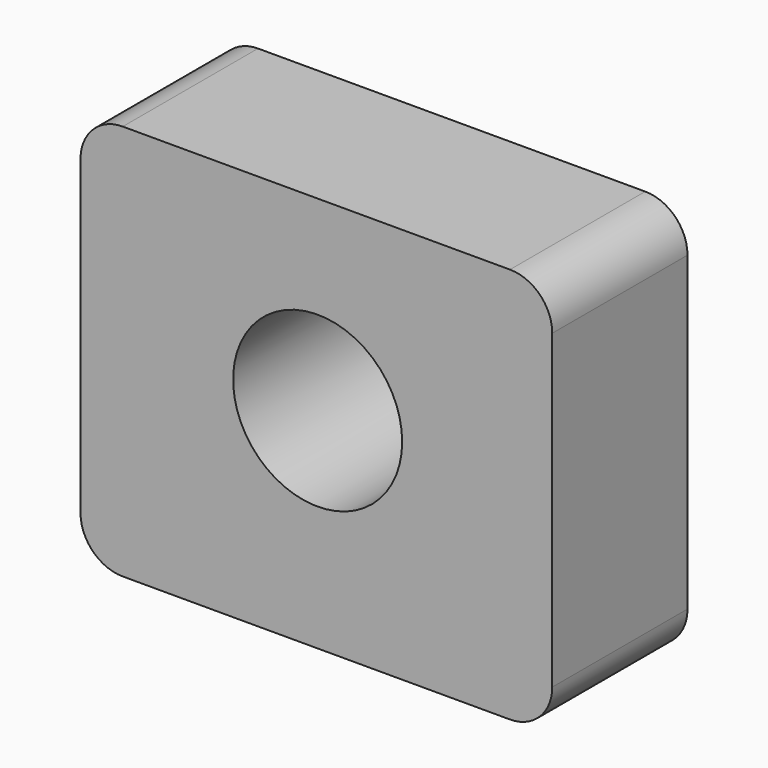
from build123d import *

# Parameters (mm, degrees)
F0_R     = 12.7
F1_DEPTH = 12.7


with BuildPart() as f1:
    # F0 (on Front) → F1 (new body, symmetric)
    with BuildSketch(Plane.XZ):
        with BuildLine():
            ThreePointArc((0, 6.35), (1.859872, 1.859872), (6.35, 0))
            Line((6.35, 0), (64.526166, 0))
            ThreePointArc((64.526166, 0), (69.016294, 1.859872), (70.876166, 6.35))
            Line((70.876166, 6.35), (70.876166, 53.155664))
            ThreePointArc((70.876166, 53.155664), (69.016294, 57.645792), (64.526166, 59.505664))
            Line((64.526166, 59.505664), (6.35, 59.505664))
            ThreePointArc((6.35, 59.505664), (1.859872, 57.645792), (0, 53.155664))
            Line((0, 53.155664), (0, 6.35))
        make_face()
        with Locations((35.627604, 31.458408)):
            Circle(F0_R, mode=Mode.SUBTRACT)
    extrude(amount=F1_DEPTH, both=True)


solid = f1.part
